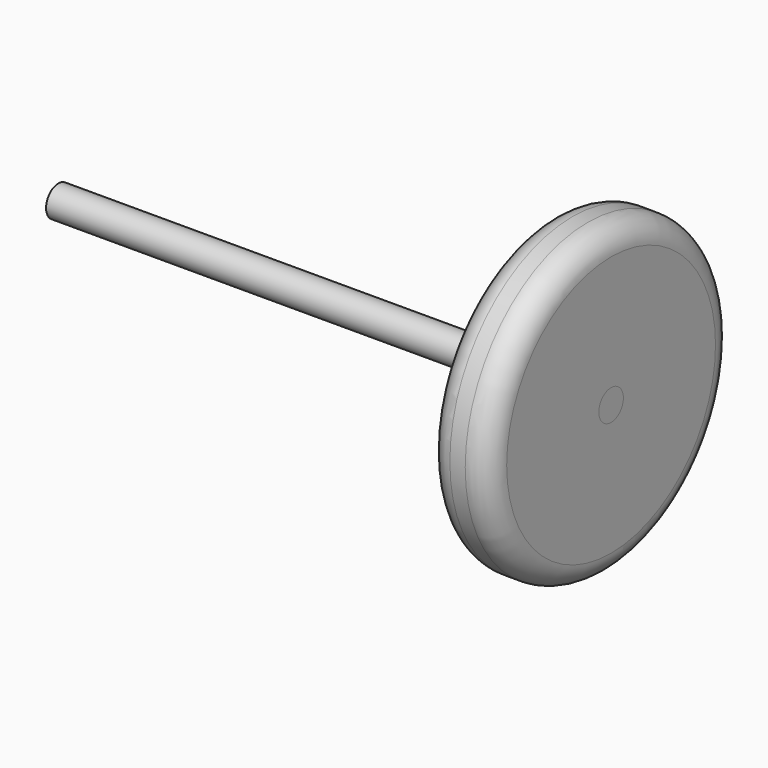
from build123d import *

# Parameters (mm, degrees)
F0_R     = 25.4
F1_DEPTH = 457.2
F2_R     = 254
F2_R_2   = 25.4
F3_DEPTH = 101.6
F4_R     = 38.1


with BuildPart() as f1:
    # F0 (on Right) → F1 (new body, symmetric)
    with BuildSketch(Plane.YZ):
        Circle(F0_R)
    extrude(amount=F1_DEPTH, both=True)


with BuildPart() as f3:
    # F2 (on face) → F3 (new body)
    with BuildSketch(Plane.YZ.offset(457.2)):
        Circle(F2_R)
        Circle(F2_R_2, mode=Mode.SUBTRACT)
    extrude(amount=-F3_DEPTH)

    # F4
    f4_edges = [f3.edges().sort_by_distance(p)[0] for p in [
        (457.2, -254, 0),
        (355.6, -254, 0),
    ]]
    fillet(f4_edges, radius=F4_R)


solid = Compound([f1.part, f3.part])
